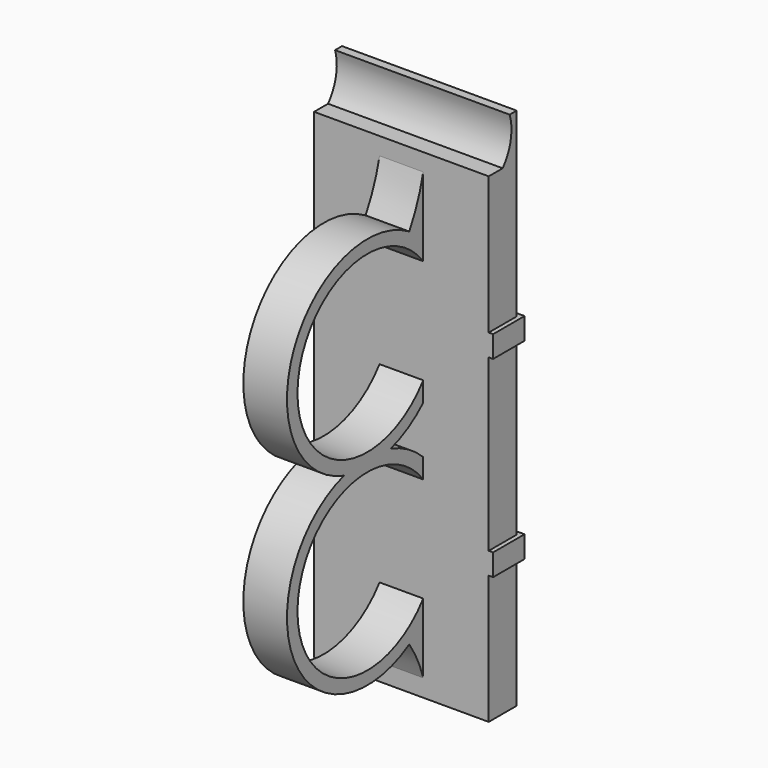
from build123d import *

# Parameters (mm, degrees)
F0_R           = 11.5
F0_R_2         = 10
F1_DEPTH       = 5
F5_DEPTH       = 10
F5_DEPTH_BACK  = 10
F6_W           = 4.5
F6_H           = 2.5
F7_DEPTH       = 0.5
F7_DEPTH_BACK  = 20.5
F8_R           = 3
F9_DEPTH       = 0.5
F9_DEPTH_BACK  = 0.5
F13_DEPTH      = 2.5
F13_DEPTH_BACK = 2.5


with BuildPart() as f1:
    # F0 (on Right) → F1 (new body)
    with BuildSketch(Plane.YZ):
        Circle(F0_R)
        Circle(F0_R_2, mode=Mode.SUBTRACT)
    extrude(amount=F1_DEPTH)


with BuildPart() as f3_1:
    # F3: copy of F1
    add(f1.part.moved(Location((0, 0, 22))))


with BuildPart() as f1_1:
    add(f1.part)

    add(f3_1.part)  # F5 merges F3_1
    # F4 (on offset) → F5 (join, two sides)
    with BuildSketch(Plane(origin=(2.5, 0, 0), x_dir=(0, -1, 0), z_dir=(-1, 0, 0))) as f5_sk:
        with BuildLine():
            Line((-12, 44), (-12, 39))
            Line((-12, 39), (-10, 39))
            ThreePointArc((-10, 39), (-11.1478150705, 41.3704369859), (-11, 44))
            Line((-11, 44), (-12, 44))
        make_face()
        with BuildLine():
            Line((-12, 39), (-12, -16))
            Line((-12, -16), (-8, -16))
            Line((-8, -16), (-8, -14))
            Line((-8, -14), (-8, -8.2613558209))
            ThreePointArc((-8, -8.2613558209), (-11.5, 0), (-8, 8.2613558209))
            Line((-8, 8.2613558209), (-8, 13.7386441791))
            ThreePointArc((-8, 13.7386441791), (-11.5, 22), (-8, 30.2613558209))
            Line((-8, 30.2613558209), (-8, 37))
            Line((-8, 37), (-8, 39))
            Line((-8, 39), (-10, 39))
            Line((-10, 39), (-12, 39))
        make_face()
        with BuildLine():
            ThreePointArc((-8, 30.2613558209), (-11.5, 22), (-8, 13.7386441791))
            Line((-8, 13.7386441791), (-8, 30.2613558209))
        make_face()
        with BuildLine():
            ThreePointArc((-8, 8.2613558209), (-11.5, 0), (-8, -8.2613558209))
            Line((-8, -8.2613558209), (-8, 8.2613558209))
        make_face()
    extrude(amount=F5_DEPTH)
    extrude(f5_sk.sketch, amount=-F5_DEPTH_BACK)

    # F6 (on face) → F7 (join, two sides)
    with BuildSketch(Plane(origin=(-7.5, 0, 0), x_dir=(0, -1, 0), z_dir=(-1, 0, 0))) as f7_sk:
        with Locations((-10.25, 0)):
            Rectangle(F6_W, F6_H)
        with Locations((-10.25, 22)):
            Rectangle(F6_W, F6_H)
    extrude(amount=F7_DEPTH)
    extrude(f7_sk.sketch, amount=-F7_DEPTH_BACK)

    # F8 (on face) → F9 (join, two sides)
    with BuildSketch(Plane(origin=(0, 12.5, 0), x_dir=(-1, 0, 0), z_dir=(0, 1, 0))) as f9_sk:
        with Locations((-2.5, 22)):
            Circle(F8_R)
        with Locations((-2.5, 0)):
            Circle(F8_R)
    extrude(amount=F9_DEPTH)
    extrude(f9_sk.sketch, amount=-F9_DEPTH_BACK)

    # F10 (on offset) → F11 (revolve)
    with BuildSketch(Plane(origin=(2.5, 0, 0), x_dir=(0, -1, 0), z_dir=(-1, 0, 0))):
        Polygon((-13, -2), (-13, 0), (-13.9, 0), (-14.5, -0.3), align=None)
    revolve(axis=Axis((2.5, 13.75, 0), (0, 1, 0)))

    # F10 (on offset) → F12 (revolve)
    with BuildSketch(Plane(origin=(2.5, 0, 0), x_dir=(0, -1, 0), z_dir=(-1, 0, 0))):
        Polygon((-13, 24), (-14.5, 22.3), (-13.9, 22), (-13, 22), align=None)
    revolve(axis=Axis((2.5, 13.75, 22), (0, 1, 0)))

    # F4 (on offset) → F13 (join, two sides)
    with BuildSketch(Plane(origin=(2.5, 0, 0), x_dir=(0, -1, 0), z_dir=(-1, 0, 0))) as f13_sk:
        with BuildLine():
            ThreePointArc((-6, 31.8107084352), (-7.1956056108, 34.3299660424), (-8, 37))
            Line((-8, 37), (-8, 30.2613558209))
            ThreePointArc((-8, 30.2613558209), (-7.0427355041, 31.0911977549), (-6, 31.8107084352))
        make_face()
        with BuildLine():
            Line((-8, -8.2613558209), (-8, -14))
            ThreePointArc((-8, -14), (-7.1707018436, -11.8238598451), (-6, -9.8107084352))
            ThreePointArc((-6, -9.8107084352), (-7.0427355041, -9.0911977549), (-8, -8.2613558209))
        make_face()
    extrude(amount=F13_DEPTH)
    extrude(f13_sk.sketch, amount=-F13_DEPTH_BACK)


solid = f1_1.part
